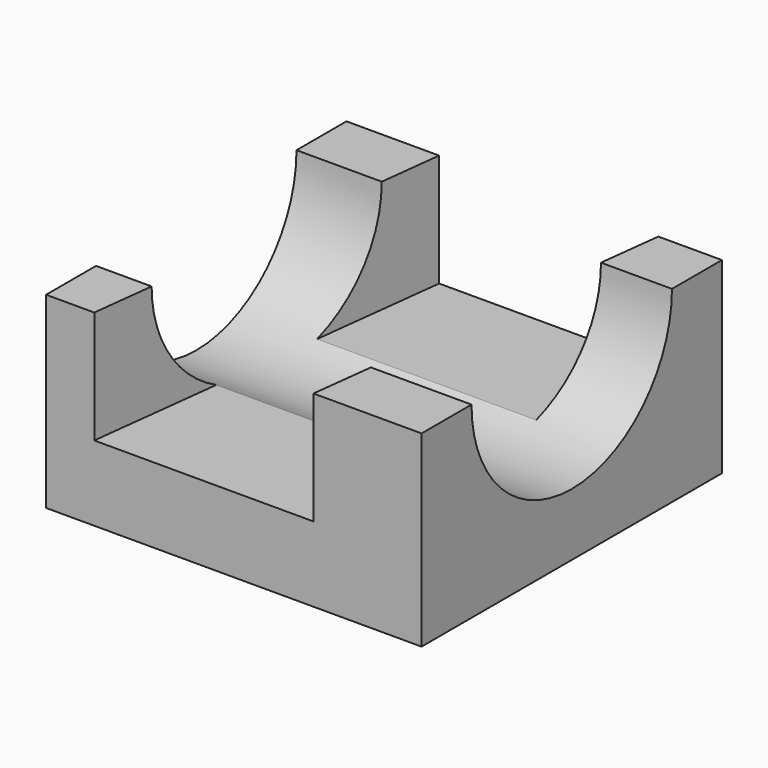
from build123d import *

# Parameters (mm, degrees)
F0_W     = 25.4
F0_H     = 12.7
F1_DEPTH = 25.4
F3_DEPTH = 7.62
F5_DEPTH = 7.62
F6_R     = 8.47557
F7_DEPTH = 25.4


with BuildPart() as f1:
    # F0 (on Front) → F1 (new body)
    with BuildSketch(Plane.XZ):
        Rectangle(F0_W, F0_H)
    extrude(amount=F1_DEPTH)

    # F2 (on face) → F3 (cut)
    with BuildSketch(Plane.XY.offset(6.35)):
        Polygon((-6.431355, 0), (-9.439249, -25.4), (-1.919514, -25.4), (1.08838, 0), align=None)
    extrude(amount=-F3_DEPTH, mode=Mode.SUBTRACT)

    # F4 (on face) → F5 (cut)
    with BuildSketch(Plane.XY.offset(6.35)):
        Polygon((-1.919514, -25.4), (5.390243, -25.4), (8.398137, 0), (1.08838, 0), align=None)
    extrude(amount=-F5_DEPTH, mode=Mode.SUBTRACT)

    # F6 (on face) → F7 (cut)
    with BuildSketch(Plane.YZ.offset(12.7)):
        with Locations((-12.7, 6.35)):
            Circle(F6_R)
    extrude(amount=-F7_DEPTH, mode=Mode.SUBTRACT)


solid = f1.part
